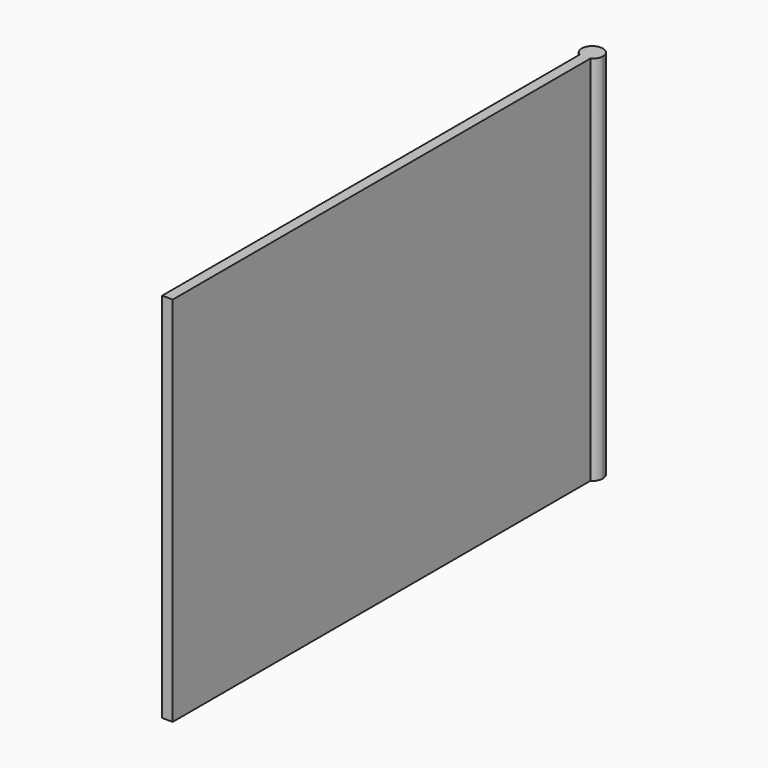
from build123d import *

# Parameters (mm, degrees)
F0_W     = 2
F0_H     = 70
F1_DEPTH = 100
F3_DEPTH = 70


with BuildPart() as f1:
    # F0 (on Front) → F1 (new body)
    with BuildSketch(Plane.XZ):
        with Locations((0, 35)):
            Rectangle(F0_W, F0_H)
    extrude(amount=F1_DEPTH)

    # F2 (on face) → F3 (join, through all)
    with BuildSketch(Plane.XY.offset(70)):
        with BuildLine():
            ThreePointArc((1, -1.732051), (1.732051, -1), (2, 0))
            ThreePointArc((2, 0), (-1, 1.732051), (-1, -1.732051))
            Line((-1, -1.732051), (-1, 0))
            Line((-1, 0), (1, 0))
            Line((1, 0), (1, -1.732051))
        make_face()
    extrude(amount=-F3_DEPTH)


solid = f1.part
